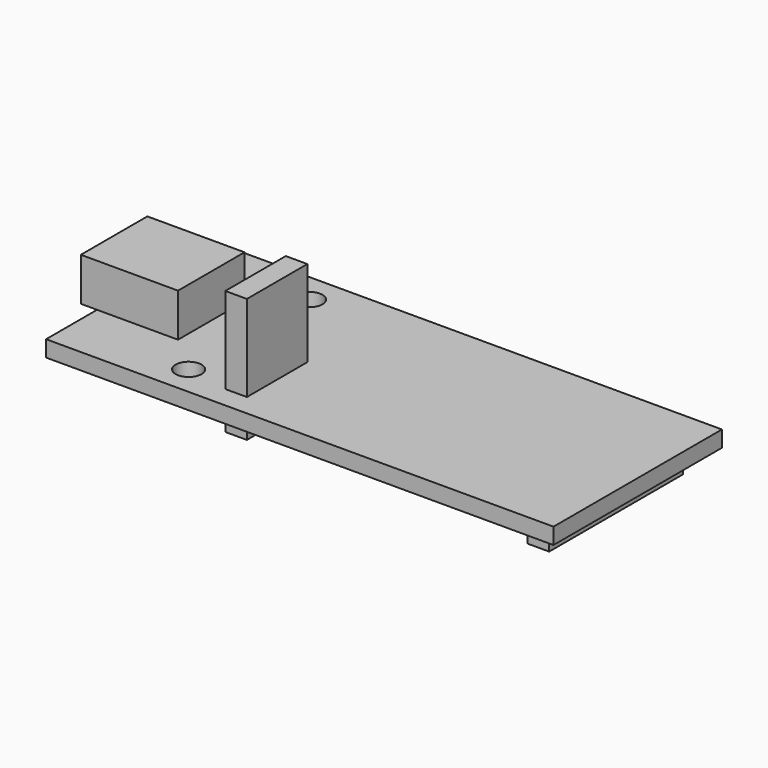
from build123d import *

# Parameters (mm, degrees)
SKETCH010_W     = 47
SKETCH010_H     = 19.5
PAD006_DEPTH    = 1.5
SKETCH011_W     = 9
SKETCH011_H     = 7.7
PAD008_DEPTH    = 4
SKETCH012_R     = 1.2
POCKET003_DEPTH = 1.501
SKETCH013_W     = 2
SKETCH013_H     = 15.5
SKETCH013_H_2   = 7
PAD007_DEPTH    = 2
SKETCH004_W     = 2
SKETCH004_H     = 7
PAD005_DEPTH    = 8


with BuildPart() as part:
    # Sketch010 → Pad006 (new body)
    with BuildSketch(Plane.XY):
        with Locations((23.5, 9.75)):
            Rectangle(SKETCH010_W, SKETCH010_H)
    extrude(amount=PAD006_DEPTH)

    # Sketch011 (on Face6 of Pad006) → Pad008 (join)
    with BuildSketch(Plane.XY.offset(1.5)):
        with Locations((3, 9.75)):
            Rectangle(SKETCH011_W, SKETCH011_H)
    extrude(amount=PAD008_DEPTH)

    # Sketch012 (on Face5 of Pad008) → Pocket003 (cut, through all)
    with BuildSketch(Plane.XY.offset(1.5)):
        with Locations((11, 16.75)):
            Circle(SKETCH012_R)
        with Locations((11, 2.75)):
            Circle(SKETCH012_R)
    extrude(amount=-POCKET003_DEPTH, mode=Mode.SUBTRACT)

    # Sketch013 (on Face4 of Pocket003) → Pad007 (join)
    with BuildSketch(Plane(origin=(0, 0, 0), x_dir=(1, 0, 0), z_dir=(0, 0, -1))):
        with Locations((44, -9.75)):
            Rectangle(SKETCH013_W, SKETCH013_H)
        with Locations((16, -5.5)):
            Rectangle(SKETCH013_W, SKETCH013_H_2)
    extrude(amount=PAD007_DEPTH)

    # Sketch004 (on Face5 of Pad007) → Pad005 (join)
    with BuildSketch(Plane.XY.offset(1.5)):
        with Locations((16, 5.5)):
            Rectangle(SKETCH004_W, SKETCH004_H)
    extrude(amount=PAD005_DEPTH)


with BuildPart() as part_1:
    # Body001 placement: moved
    add(part.part.moved(Location((-69.5, -9.75, 4))))


solid = part_1.part
